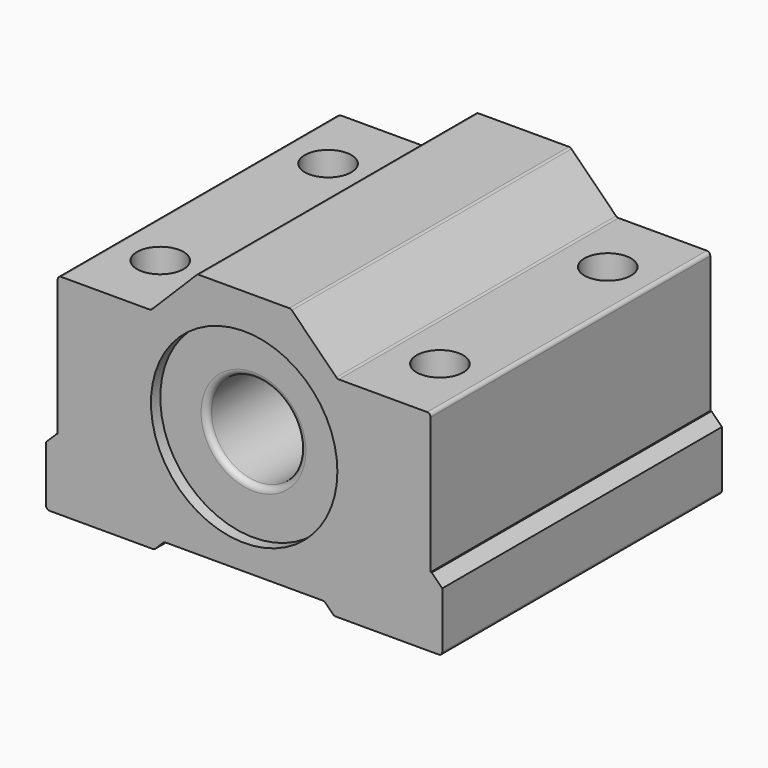
from build123d import *

# Parameters (mm, degrees)
SKETCH_R        = 8
PAD_DEPTH       = 15
POCKET_DEPTH    = 35
CHAMFER_SIZE    = 0.9
FILLET_R        = 0.3
SKETCH002_R     = 2
POCKET001_DEPTH = 20
SKETCH003_R     = 8
SKETCH003_R_2   = 4
PAD001_DEPTH    = 14
FILLET001_R     = 0.5


with BuildPart() as body:
    # Sketch → Pad (new body, symmetric)
    with BuildSketch(Plane.XZ):
        Polygon((-17, -11), (17, -11), (17, -5), (16, -5), (16, 7), (8, 7), (4, 11), (-4, 11), (-8, 7), (-16, 7), (-16, -5), (-17, -5), align=None)
        Circle(SKETCH_R, mode=Mode.SUBTRACT)
    extrude(amount=PAD_DEPTH, both=True)

    # Sketch001 → Pocket (cut)
    with BuildSketch(Plane(origin=(0, 15, 0), x_dir=(1, 0, 0), z_dir=(0, 1, 0))):
        Polygon((-8, 12.156693), (-8, 11.288945), (-6.867748, 10.156693), (6.867748, 10.156693), (8, 11.288945), (8, 12.156693), align=None)
    extrude(amount=-POCKET_DEPTH, mode=Mode.SUBTRACT)

    # Chamfer
    chamfer_edges = [body.edges().sort_by_distance(p)[0] for p in [
        (17, 0, -5),
        (-17, 0, -5),
    ]]
    chamfer(chamfer_edges, length=CHAMFER_SIZE)

    # Fillet
    fillet_edges = [body.edges().sort_by_distance(p)[0] for p in [
        (-17, 0, -11),
        (17, 0, -11),
        (7.711055, 0, -11),
        (6.867748, 0, -10.156693),
        (-6.867748, 0, -10.156693),
        (-7.711055, 0, -11),
        (16, 0, 7),
        (-16, 0, 7),
        (4, 0, 11),
        (-4, 0, 11),
        (-8, 0, 7),
        (8, 0, 7),
    ]]
    fillet(fillet_edges, radius=FILLET_R)

    # Sketch002 (on Face28 of Fillet) → Pocket001 (cut)
    with BuildSketch(Plane(origin=(0, 0, 7), x_dir=(-1, 0, 0), z_dir=(0, 0, 1))):
        with Locations((-12, -9)):
            Circle(SKETCH002_R)
        with Locations((-12, 9)):
            Circle(SKETCH002_R)
    pocket001 = extrude(amount=-POCKET001_DEPTH, mode=Mode.SUBTRACT)

    # Mirrored: Pocket001 across Sketch002 V_Axis
    add(pocket001.mirror(Plane(origin=(0, 0, 7), x_dir=(0, 0, 1), z_dir=(-1, 0, 0))), mode=Mode.SUBTRACT)


with BuildPart() as body001:
    # Sketch003 → Pad001 (new body, symmetric)
    with BuildSketch(Plane.XZ):
        Circle(SKETCH003_R)
        Circle(SKETCH003_R_2, mode=Mode.SUBTRACT)
    extrude(amount=PAD001_DEPTH, both=True)

    # Fillet001
    fillet001_edges = [body001.edges().sort_by_distance(p)[0] for p in [
        (-4, -14, 0),
        (-4, 14, 0),
    ]]
    fillet(fillet001_edges, radius=FILLET001_R)


solid = Compound([body.part, body001.part])
